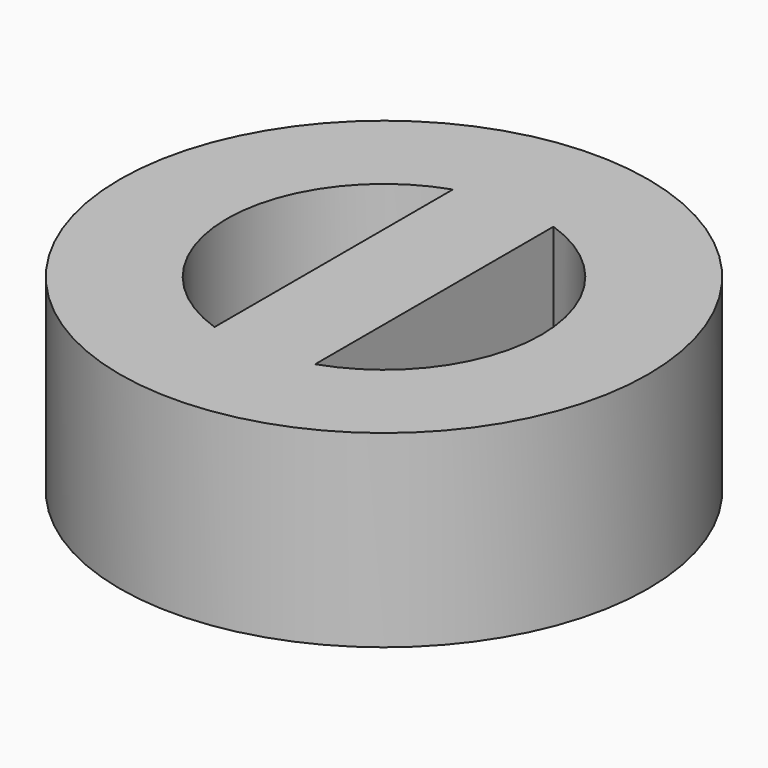
from build123d import *

# Parameters (mm, degrees)
F0_R     = 21
F1_DEPTH = 15


with BuildPart() as f1:
    # F0 (on Top) → F1 (new body)
    with BuildSketch(Plane.XY):
        Circle(F0_R)
        with BuildLine():
            ThreePointArc((-4, -11.842719), (-12.5, 0), (-4, 11.842719))
            Line((-4, 11.842719), (-4, -11.842719))
        make_face(mode=Mode.SUBTRACT)
        with BuildLine():
            Line((4, -11.842719), (4, 11.842719))
            ThreePointArc((4, 11.842719), (12.5, 0), (4, -11.842719))
        make_face(mode=Mode.SUBTRACT)
    extrude(amount=F1_DEPTH)


solid = f1.part
